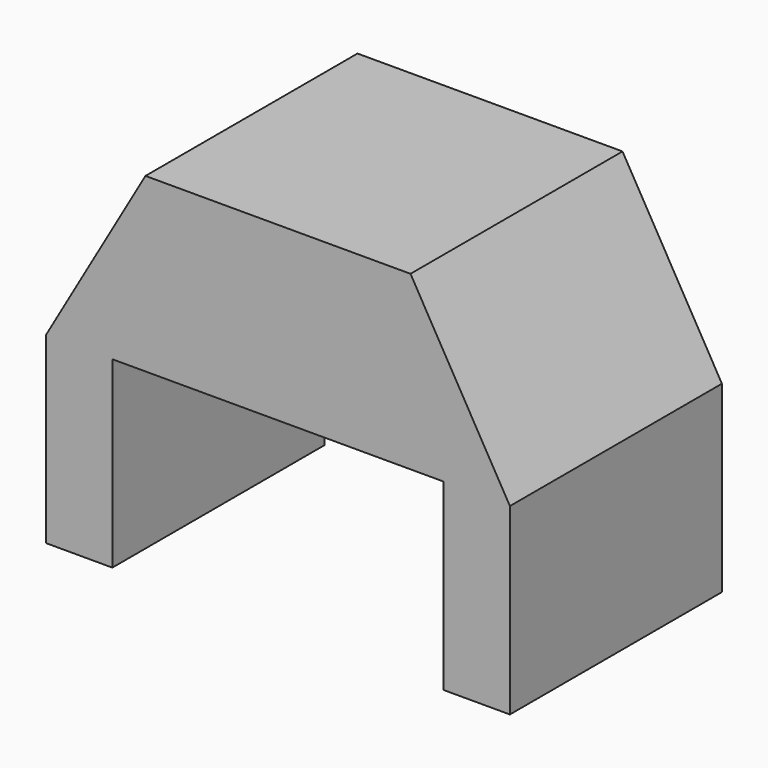
from build123d import *

# Parameters (mm, degrees)
F0_W     = 25.4
F0_H     = 70.3412795041
F1_DEPTH = 50.8


with BuildPart() as f1:
    # F0 (on Front) → F1 (new body, symmetric)
    with BuildSketch(Plane.XZ):
        with Locations((-50.3423148662, -42.8482267274)):
            Rectangle(F0_W, F0_H)
        Polygon((76.6576851338, 58.313548793), (-24.9423148662, 58.313548793), (-63.0423148662, -7.6775869753), (-37.6423148662, -7.6775869753), (89.3576851338, -7.6775869753), (114.7576851338, -7.6775869753), align=None)
        with Locations((102.0576851338, -42.8482267274)):
            Rectangle(F0_W, F0_H)
    extrude(amount=F1_DEPTH, both=True)


solid = f1.part
